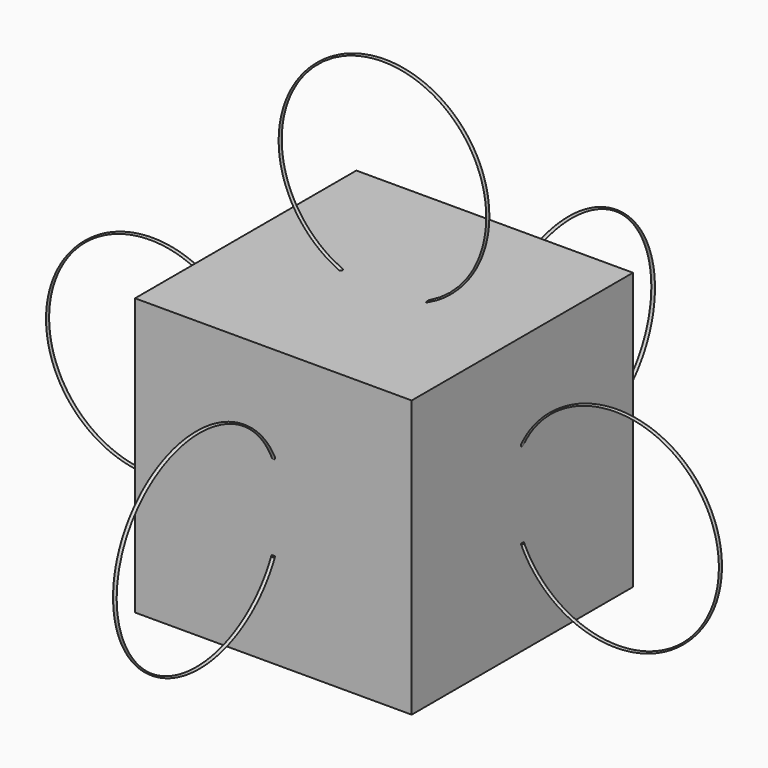
from build123d import *

# Parameters (mm, degrees)
F0_W     = 203.2
F0_H     = 203.2
F1_DEPTH = 203.2
F3_R     = 1.27
F6_COUNT = 4
F8_R     = 1.27


with BuildPart() as f1:
    # F0 (on Top) → F1 (new body)
    with BuildSketch(Plane.XY):
        Rectangle(F0_W, F0_H)
    extrude(amount=F1_DEPTH)

    # F4: sweep along a path in F2
    with BuildLine(Plane.YZ) as f4_path:
        ThreePointArc((101.6, 69.85), (247.0703219279, 101.6), (101.6, 133.35))
    # F3 (on face) → F4 (sweep)
    with BuildSketch(Plane(origin=(0, 101.6, 0), x_dir=(-1, 0, 0), z_dir=(0, 1, 0))):
        with Locations((0, 133.35)):
            Circle(F3_R)
    sweep(path=f4_path.line)


with BuildPart() as f6_1:
    # F6: instance of F1
    add(f1.part.rotate(Axis((0, 0, 52.3514039814), (0, 0, 1)), 1 * 360 / F6_COUNT))


with BuildPart() as f6_2:
    # F6: instance of F1
    add(f1.part.rotate(Axis((0, 0, 52.3514039814), (0, 0, 1)), 2 * 360 / F6_COUNT))


with BuildPart() as f6_3:
    # F6: instance of F1
    add(f1.part.rotate(Axis((0, 0, 52.3514039814), (0, 0, 1)), 3 * 360 / F6_COUNT))


with BuildPart() as f9:
    # F9: sweep along a path in F7
    with BuildLine(Plane.XZ) as f9_path:
        ThreePointArc((31.75, 203.2), (0, 348.6703219279), (-31.75, 203.2))
    # F8 (on face) → F9 (sweep)
    with BuildSketch(Plane.XY.offset(203.2)):
        with Locations((-31.75, 0)):
            Circle(F8_R)
    sweep(path=f9_path.line)


solid = Compound([f1.part, f6_1.part, f6_2.part, f6_3.part, f9.part])
